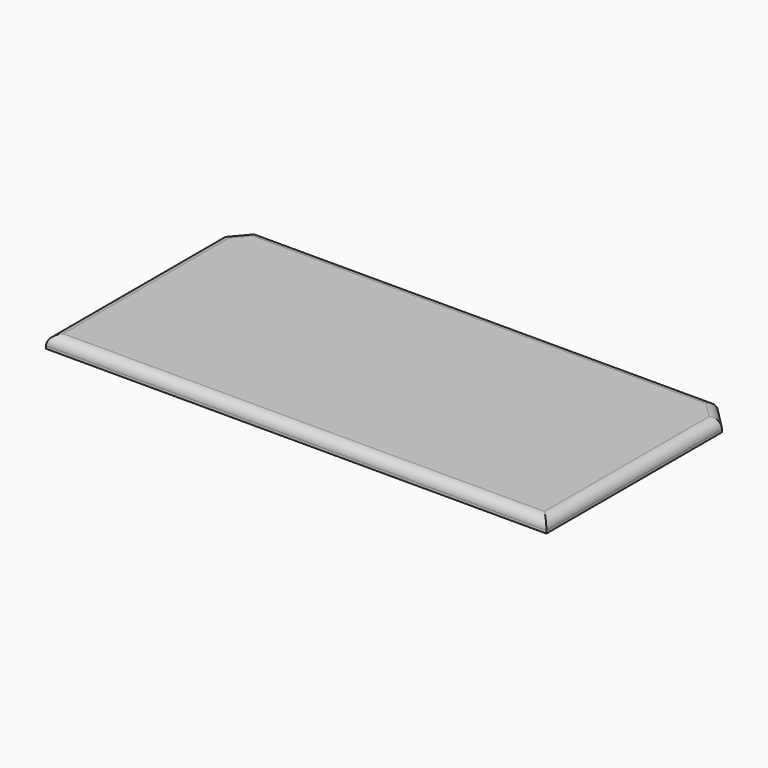
from build123d import *

# Parameters (mm, degrees)
F1_DEPTH = 1.3
F2_R     = 1


with BuildPart() as f1:
    # F0 (on Top) → F1 (new body)
    with BuildSketch(Plane.XY):
        Polygon((26, 10.300687), (23.819691, 12.5), (-24.212448, 12.5), (-26, 10.416987), (-26, -12.5), (26, -12.5), align=None)
    extrude(amount=F1_DEPTH)

    # F2
    f2_edges = [f1.edges().sort_by_distance(p)[0] for p in [
        (24.909845, 11.400343, 1.3),
        (-0.196379, 12.5, 1.3),
        (-25.106224, 11.458494, 1.3),
        (-26, -1.041506, 1.3),
        (0, -12.5, 1.3),
        (26, -1.099657, 1.3),
    ]]
    fillet(f2_edges, radius=F2_R)


solid = f1.part
